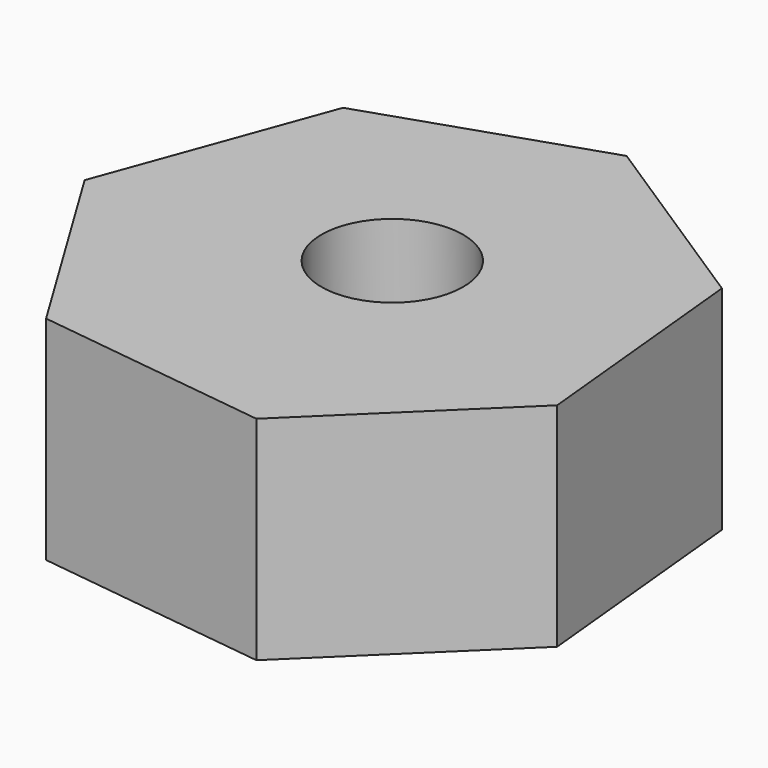
from build123d import *

# Parameters (mm, degrees)
F2_DEPTH = 4.7625
F3_R     = 1.5875
F5_DEPTH = 39.878


with BuildPart() as f2:
    # F0 (on Top) → F2 (new body)
    with BuildSketch(Plane.XY):
        Polygon((2.258348, 21.510379), (5.006775, 16.995105), (10.250574, 16.328685), (14.041057, 20.012947), (13.523914, 25.273565), (9.088563, 28.149188), (4.074914, 26.474412), align=None)
    extrude(amount=F2_DEPTH)

    # F3 (on Top) → F5 (cut)
    with BuildSketch(Plane.XY):
        with Locations((8.368745, 22.486785)):
            Circle(F3_R)
    extrude(amount=F5_DEPTH, mode=Mode.SUBTRACT)


solid = f2.part
